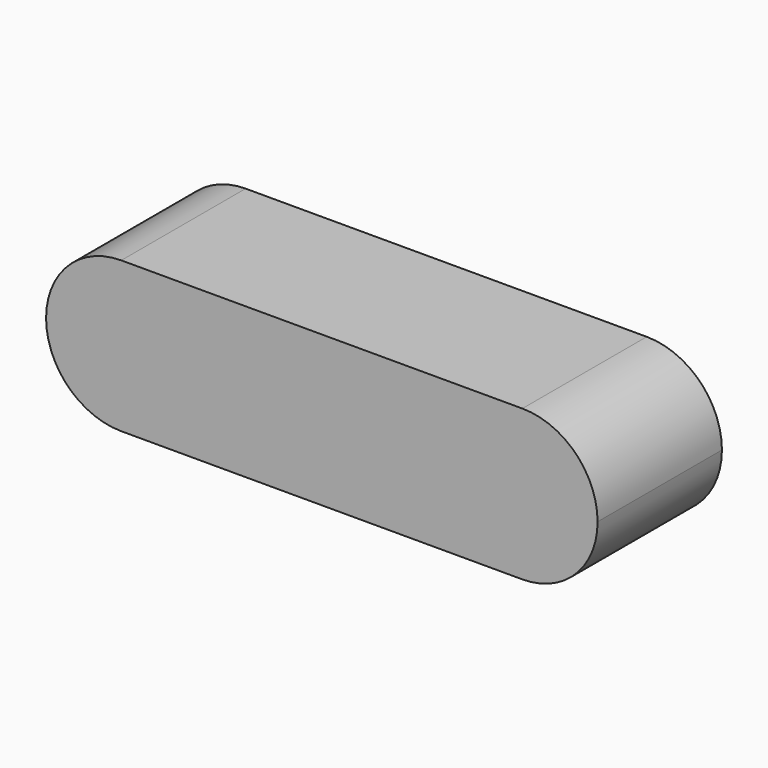
from build123d import *

# Parameters (mm, degrees)
F1_DEPTH = 6.2


with BuildPart() as f1:
    # F0 (on Front) → F1 (new body)
    with BuildSketch(Plane.XZ):
        with BuildLine():
            ThreePointArc((-8, 3), (-11, 0), (-8, -3))
            ThreePointArc((-8, -3), (-5.8786796564, -2.1213203436), (-5, 0))
            ThreePointArc((-5, 0), (-5.8786796564, 2.1213203436), (-8, 3))
        make_face()
        with BuildLine():
            Line((-8, -3), (8, -3))
            ThreePointArc((8, -3), (5, 0), (8, 3))
            Line((8, 3), (-8, 3))
            ThreePointArc((-8, 3), (-5.8786796564, 2.1213203436), (-5, 0))
            ThreePointArc((-5, 0), (-5.8786796564, -2.1213203436), (-8, -3))
        make_face()
        with BuildLine():
            ThreePointArc((8, 3), (5, 0), (8, -3))
            ThreePointArc((8, -3), (10.1213203436, -2.1213203436), (11, 0))
            ThreePointArc((11, 0), (10.1213203436, 2.1213203436), (8, 3))
        make_face()
    extrude(amount=F1_DEPTH)


solid = f1.part
